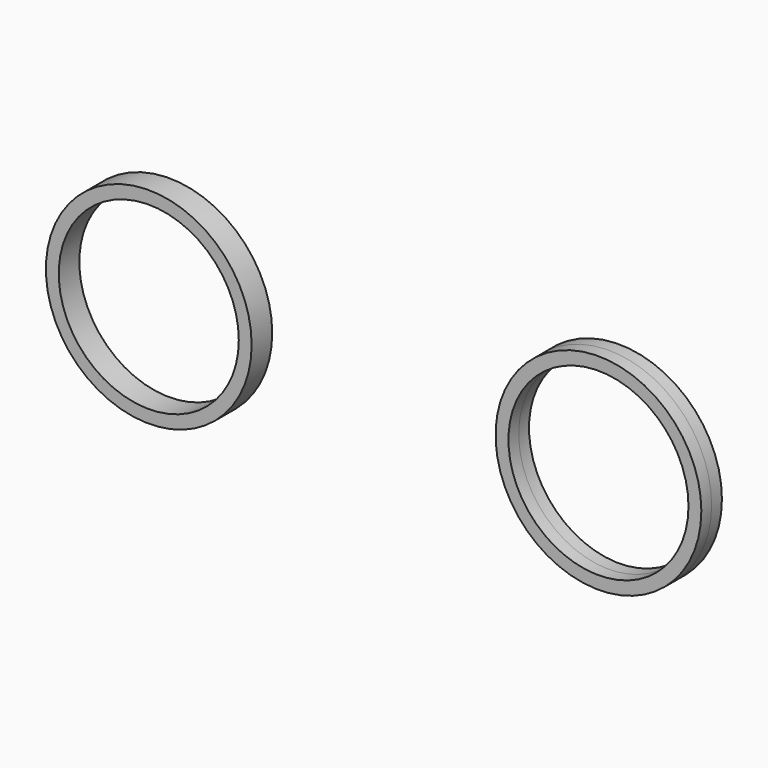
from build123d import *

# Parameters (mm, degrees)
F0_R     = 25.4
F0_R_2   = 22.225
F1_DEPTH = 3.175
F2_DEPTH = 3.175


with BuildPart() as f1:
    # F0 (on Front) → F1 (new body, symmetric)
    with BuildSketch(Plane.XZ):
        with Locations((59.679164, 0)):
            Circle(F0_R)
        with Locations((59.679164, 0)):
            Circle(F0_R_2, mode=Mode.SUBTRACT)
        with Locations((-51.343595, 0)):
            Circle(F0_R)
        with Locations((-51.343595, 0)):
            Circle(F0_R_2, mode=Mode.SUBTRACT)
    extrude(amount=F1_DEPTH, both=True)


with BuildPart() as f2:
    # F0 (on Front) → F2 (new body, symmetric)
    with BuildSketch(Plane.XZ):
        with Locations((59.679164, 0)):
            Circle(F0_R)
        with Locations((59.679164, 0)):
            Circle(F0_R_2, mode=Mode.SUBTRACT)
        with Locations((-51.343595, 0)):
            Circle(F0_R)
        with Locations((-51.343595, 0)):
            Circle(F0_R_2, mode=Mode.SUBTRACT)
    extrude(amount=F2_DEPTH, both=True)


solid = Compound([f1.part, f2.part])
